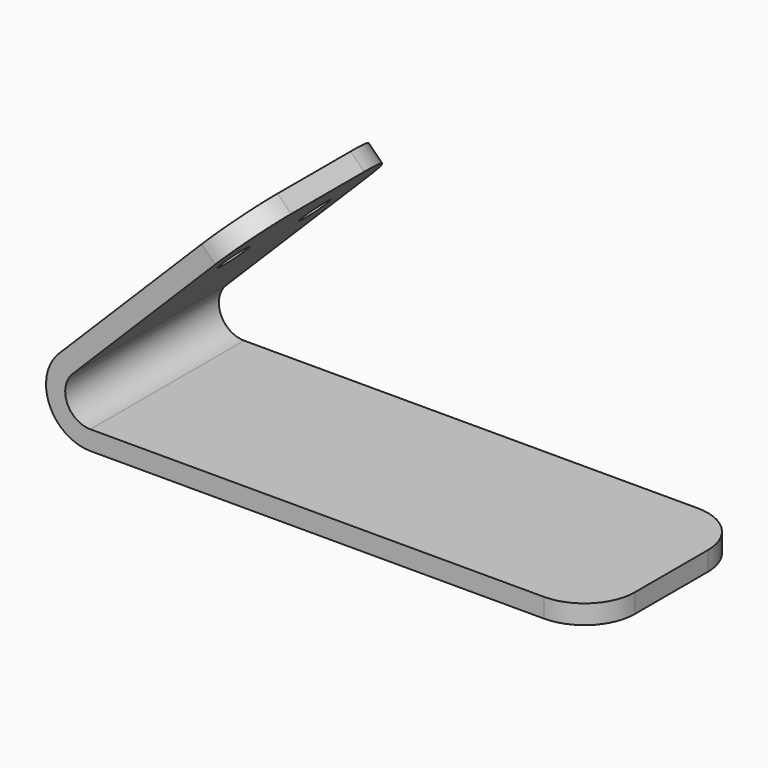
from build123d import *

# Parameters (mm, degrees)
F1_DEPTH = 19.05
F2_R     = 5
F3_R     = 1.5
F4_DEPTH = 2.6


with BuildPart() as f1:
    # F0 (on Front) → F1 (new body)
    with BuildSketch(Plane.XZ):
        with BuildLine():
            Line((3.3472654321, 31.1172038595), (2.0037624331, 32.4607068585))
            Line((2.0037624331, 32.4607068585), (-15.6739070966, 14.7830373289))
            ThreePointArc((-15.6739070966, 14.7830373289), (-16.6277072024, 9.9879603892), (-12.5626372594, 7.2717674916))
            Line((-12.5626372594, 7.2717674916), (37.4373627406, 7.2717674916))
            Line((37.4373627406, 7.2717674916), (37.4373627406, 9.1717676539))
            Line((37.4373627406, 9.1717676539), (-12.5626372594, 9.1717676539))
            ThreePointArc((-12.5626372594, 9.1717676539), (-14.8723359407, 10.7150589728), (-14.3304040976, 13.4395343299))
            Line((-14.3304040976, 13.4395343299), (3.3472654321, 31.1172038595))
        make_face()
    extrude(amount=F1_DEPTH)

    # F2
    f2_edges = [f1.edges().sort_by_distance(p)[0] for p in [
        (37.437363, -19.05, 8.221768),
        (37.437363, 0, 8.221768),
        (2.675514, -19.05, 31.788955),
        (2.675514, 0, 31.788955),
    ]]
    fillet(f2_edges, radius=F2_R)

    # F3 (on face) → F4 (cut)
    with BuildSketch(Plane(origin=(-15.2284722127, 0, 15.2284722127), x_dir=(0, -1, 0), z_dir=(-0.7071067812, 0, 0.7071067812))):
        with Locations((4.5, 16.8700599461)):
            Circle(F3_R)
        with Locations((14.55, 16.8700599461)):
            Circle(F3_R)
    extrude(amount=-F4_DEPTH, mode=Mode.SUBTRACT)


solid = f1.part
